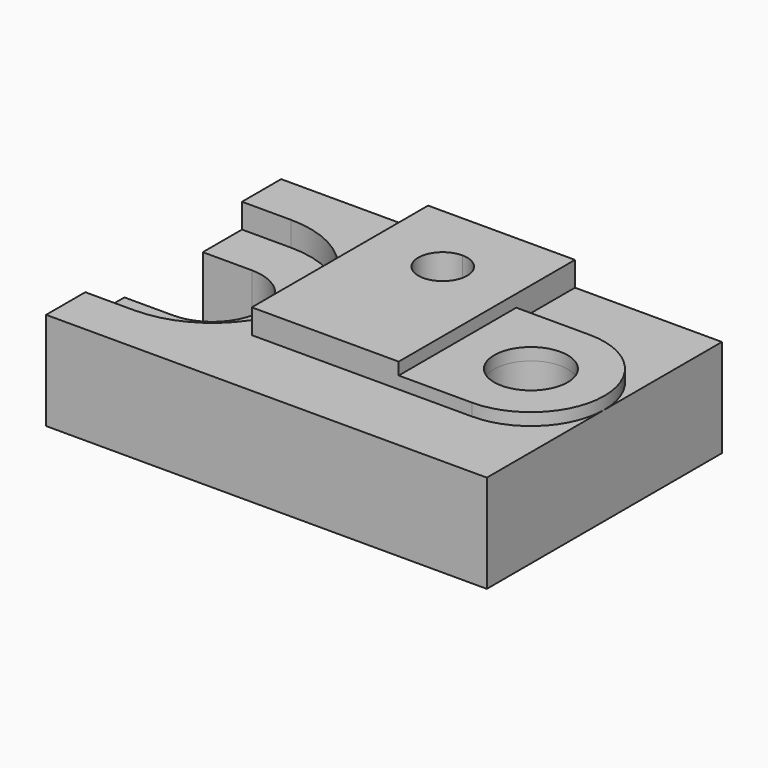
from build123d import *

# Parameters (mm, degrees)
F0_W      = 108
F0_H      = 24
F1_DEPTH  = 72
F3_DEPTH  = 6
F4_DEPTH  = 24.001
F6_DEPTH  = 6
F8_DEPTH  = 30.001
F9_R      = 9
F10_DEPTH = 3
F11_DEPTH = 24.001


with BuildPart() as f1:
    # F0 (on Front) → F1 (new body)
    with BuildSketch(Plane.XZ):
        with Locations((3.6308863163, -7.8423750699)):
            Rectangle(F0_W, F0_H)
    extrude(amount=F1_DEPTH)

    # F2 (on face) → F3 (cut)
    with BuildSketch(Plane.XY.offset(4.1576249301)):
        with BuildLine():
            Line((-50.3691136837, -48), (-50.3691136837, -60))
            Line((-50.3691136837, -60), (-38.3691136837, -60))
            ThreePointArc((-38.3691136837, -60), (-14.3691136837, -36), (-38.3691136837, -12))
            Line((-38.3691136837, -12), (-50.3691136837, -12))
            Line((-50.3691136837, -12), (-50.3691136837, -24))
            Line((-50.3691136837, -24), (-38.3691136837, -24))
            ThreePointArc((-38.3691136837, -24), (-26.3691136837, -36), (-38.3691136837, -48))
            Line((-38.3691136837, -48), (-50.3691136837, -48))
        make_face()
    extrude(amount=-F3_DEPTH, mode=Mode.SUBTRACT)

    # F4 (cut, through all): a face of the model
    f4_faces = [f1.faces().sort_by_distance(p)[0] for p in [
        (-39.4893119907, -36, 4.1576249301),
    ]]
    extrude(f4_faces, amount=-F4_DEPTH, mode=Mode.SUBTRACT)

    # F5 (on face) → F6 (join)
    with BuildSketch(Plane.XY.offset(4.1576249301)):
        Polygon((21.6308863163, 0), (-14.3691136837, 0), (-14.3691136837, -36), (-14.3691136837, -54), (21.6308863163, -54), align=None)
    extrude(amount=F6_DEPTH)

    # F7 (on face) → F8 (cut, through all)
    with BuildSketch(Plane.XY.offset(10.1576249301)):
        with BuildLine():
            ThreePointArc((3.6308863163, -12), (-0.6117543708, -22.2426406871), (9.6308863163, -18))
            ThreePointArc((9.6308863163, -18), (7.8735270034, -13.7573593129), (3.6308863163, -12))
        make_face()
    extrude(amount=-F8_DEPTH, mode=Mode.SUBTRACT)

    # F9 (on face) → F10 (join)
    with BuildSketch(Plane.XY.offset(4.1576249301)):
        with BuildLine():
            Line((21.6308863163, -54), (39.6308863163, -54))
            ThreePointArc((39.6308863163, -54), (57.6308863163, -36), (39.6308863163, -18))
            Line((39.6308863163, -18), (21.6308863163, -18))
            Line((21.6308863163, -18), (21.6308863163, -54))
        make_face()
        with Locations((39.6308863163, -36)):
            Circle(F9_R, mode=Mode.SUBTRACT)
    extrude(amount=F10_DEPTH)

    # F11 (cut, through all): a face of the model
    f11_faces = [f1.faces().sort_by_distance(p)[0] for p in [
        (39.6308863163, -36, 4.1576249301),
    ]]
    extrude(f11_faces, amount=-F11_DEPTH, mode=Mode.SUBTRACT)


solid = f1.part
